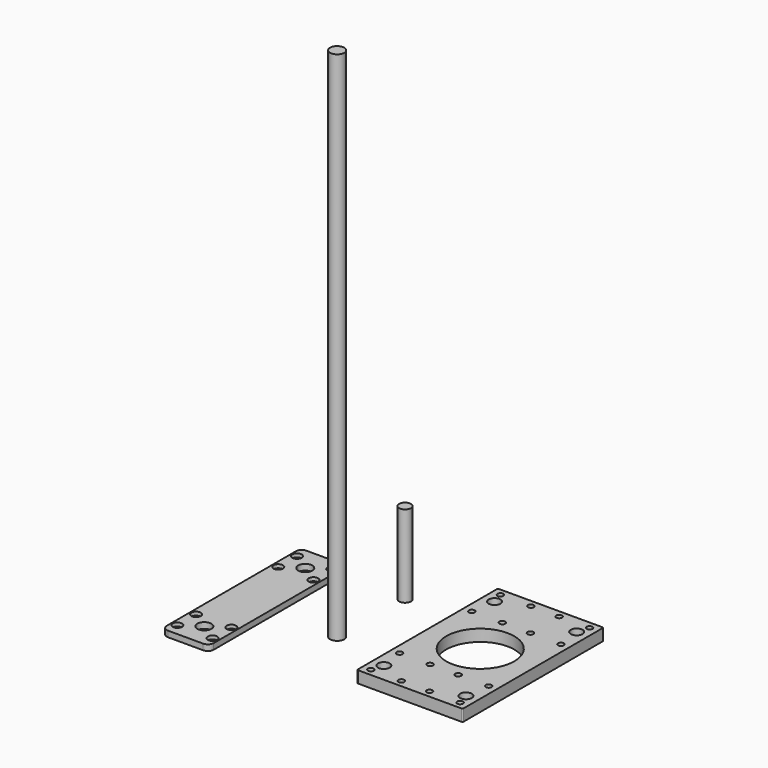
from build123d import *

# Parameters (mm, degrees)
F0_W      = 90
F0_H      = 150
F0_R      = 2.5
F0_R_2    = 5
F0_R_3    = 29
F1_DEPTH  = 10
F2_R      = 1
F3_R      = 5
F4_DEPTH  = 70
F5_W      = 40
F5_H      = 147.5
F5_R      = 2
F5_R_2    = 6
F6_DEPTH  = 5
F7_R      = 5
F8_R      = 4
F8_R_2    = 2
F9_DEPTH  = 3
F10_R     = 6
F11_DEPTH = 440


with BuildPart() as f1:
    # F0 (on Top) → F1 (new body)
    with BuildSketch(Plane.XY):
        with Locations((-2.777062, 31.482918)):
            Rectangle(F0_W, F0_H)
        with Locations((-40.777062, -37.517082)):
            Circle(F0_R, mode=Mode.SUBTRACT)
        with Locations((-37.777062, -27.517082)):
            Circle(F0_R_2, mode=Mode.SUBTRACT)
        with Locations((-40.777062, -7.017082)):
            Circle(F0_R, mode=Mode.SUBTRACT)
        with Locations((-14.777062, -37.517082)):
            Circle(F0_R, mode=Mode.SUBTRACT)
        with Locations((-14.777062, -7.017082)):
            Circle(F0_R, mode=Mode.SUBTRACT)
        with Locations((9.222938, -37.517082)):
            Circle(F0_R, mode=Mode.SUBTRACT)
        with Locations((9.222938, -7.017082)):
            Circle(F0_R, mode=Mode.SUBTRACT)
        with Locations((35.222938, -37.517082)):
            Circle(F0_R, mode=Mode.SUBTRACT)
        with Locations((32.222938, -27.517082)):
            Circle(F0_R_2, mode=Mode.SUBTRACT)
        with Locations((35.222938, -7.017082)):
            Circle(F0_R, mode=Mode.SUBTRACT)
        with Locations((-40.777062, 69.982918)):
            Circle(F0_R, mode=Mode.SUBTRACT)
        with Locations((-37.777062, 90.482918)):
            Circle(F0_R_2, mode=Mode.SUBTRACT)
        with Locations((-40.777062, 100.482918)):
            Circle(F0_R, mode=Mode.SUBTRACT)
        with Locations((-14.777062, 69.982918)):
            Circle(F0_R, mode=Mode.SUBTRACT)
        with Locations((-14.777062, 100.482918)):
            Circle(F0_R, mode=Mode.SUBTRACT)
        with Locations((-2.777062, 31.482918)):
            Circle(F0_R_3, mode=Mode.SUBTRACT)
        with Locations((9.222938, 69.982918)):
            Circle(F0_R, mode=Mode.SUBTRACT)
        with Locations((9.222938, 100.482918)):
            Circle(F0_R, mode=Mode.SUBTRACT)
        with Locations((35.222938, 69.982918)):
            Circle(F0_R, mode=Mode.SUBTRACT)
        with Locations((32.222938, 90.482918)):
            Circle(F0_R_2, mode=Mode.SUBTRACT)
        with Locations((35.222938, 100.482918)):
            Circle(F0_R, mode=Mode.SUBTRACT)
    extrude(amount=F1_DEPTH)

    # F2
    f2_edges = [f1.edges().sort_by_distance(p)[0] for p in [
        (42.222938, -43.517082, 5),
        (42.222938, 106.482918, 5),
        (-47.777062, 106.482918, 5),
        (-47.777062, -43.517082, 5),
    ]]
    fillet(f2_edges, radius=F2_R)


with BuildPart() as f4:
    # F3 (on Top) → F4 (new body)
    with BuildSketch(Plane.XY):
        with Locations((-98.344639, 70.815697)):
            Circle(F3_R)
    extrude(amount=F4_DEPTH)


with BuildPart() as f6:
    # F5 (on Top) → F6 (new body)
    with BuildSketch(Plane.XY):
        with Locations((-172.360413, 3.294956)):
            Rectangle(F5_W, F5_H)
        with Locations((-187.360413, -60.455044)):
            Circle(F5_R, mode=Mode.SUBTRACT)
        with Locations((-187.360413, -40.455044)):
            Circle(F5_R, mode=Mode.SUBTRACT)
        with Locations((-172.360413, -50.455044)):
            Circle(F5_R_2, mode=Mode.SUBTRACT)
        with Locations((-157.360413, -60.455044)):
            Circle(F5_R, mode=Mode.SUBTRACT)
        with Locations((-157.360413, -40.455044)):
            Circle(F5_R, mode=Mode.SUBTRACT)
        with Locations((-187.360413, 47.044956)):
            Circle(F5_R, mode=Mode.SUBTRACT)
        with Locations((-187.360413, 67.044956)):
            Circle(F5_R, mode=Mode.SUBTRACT)
        with Locations((-172.360413, 57.044956)):
            Circle(F5_R_2, mode=Mode.SUBTRACT)
        with Locations((-157.360413, 47.044956)):
            Circle(F5_R, mode=Mode.SUBTRACT)
        with Locations((-157.360413, 67.044956)):
            Circle(F5_R, mode=Mode.SUBTRACT)
    extrude(amount=F6_DEPTH)

    # F7
    f7_edges = [f6.edges().sort_by_distance(p)[0] for p in [
        (-192.360413, 77.044956, 2.5),
        (-192.360413, -70.455044, 2.5),
        (-152.360413, -70.455044, 2.5),
        (-152.360413, 77.044956, 2.5),
    ]]
    fillet(f7_edges, radius=F7_R)

    # F8 (on face) → F9 (cut)
    with BuildSketch(Plane.XY.offset(5)):
        with Locations((-157.360413, 67.044956)):
            Circle(F8_R)
        with Locations((-157.360413, 67.044956)):
            Circle(F8_R_2, mode=Mode.SUBTRACT)
        with Locations((-157.360413, 47.044956)):
            Circle(F8_R)
        with Locations((-157.360413, 47.044956)):
            Circle(F8_R_2, mode=Mode.SUBTRACT)
        with Locations((-187.360413, 47.044956)):
            Circle(F8_R)
        with Locations((-187.360413, 47.044956)):
            Circle(F8_R_2, mode=Mode.SUBTRACT)
        with Locations((-187.360413, 67.044956)):
            Circle(F8_R)
        with Locations((-187.360413, 67.044956)):
            Circle(F8_R_2, mode=Mode.SUBTRACT)
        with Locations((-187.360413, -40.455044)):
            Circle(F8_R)
        with Locations((-187.360413, -40.455044)):
            Circle(F8_R_2, mode=Mode.SUBTRACT)
        with Locations((-157.360413, -40.455044)):
            Circle(F8_R)
        with Locations((-157.360413, -40.455044)):
            Circle(F8_R_2, mode=Mode.SUBTRACT)
        with Locations((-157.360413, -60.455044)):
            Circle(F8_R)
        with Locations((-157.360413, -60.455044)):
            Circle(F8_R_2, mode=Mode.SUBTRACT)
        with Locations((-187.360413, -60.455044)):
            Circle(F8_R)
        with Locations((-187.360413, -60.455044)):
            Circle(F8_R_2, mode=Mode.SUBTRACT)
    extrude(amount=-F9_DEPTH, mode=Mode.SUBTRACT)


with BuildPart() as f11:
    # F10 (on Top) → F11 (new body)
    with BuildSketch(Plane.XY):
        with Locations((-99.94898, 0.485912)):
            Circle(F10_R)
    extrude(amount=F11_DEPTH)


solid = Compound([f1.part, f4.part, f6.part, f11.part])
